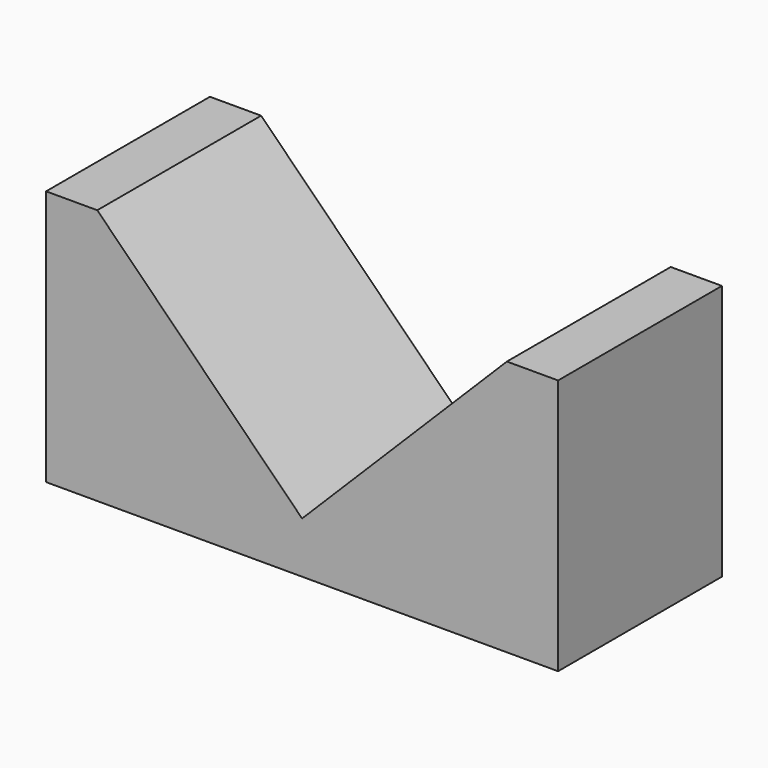
from build123d import *

# Parameters (mm, degrees)
F0_W     = 63.5
F0_H     = 31.75
F1_DEPTH = 25.4
F3_DEPTH = 25.4


with BuildPart() as f1:
    # F0 (on Front) → F1 (new body)
    with BuildSketch(Plane.XZ):
        with Locations((31.75, 15.875)):
            Rectangle(F0_W, F0_H)
    extrude(amount=F1_DEPTH)

    # F2 (on face) → F3 (cut)
    with BuildSketch(Plane.XZ.offset(25.4)):
        Polygon((44.45, 31.75), (19.05, 31.75), (31.75, 19.05), align=None)
        Polygon((19.05, 31.75), (6.35, 31.75), (31.75, 6.35), (31.75, 19.05), align=None)
        Polygon((31.75, 19.05), (31.75, 6.35), (57.15, 31.75), (44.45, 31.75), align=None)
    extrude(amount=-F3_DEPTH, mode=Mode.SUBTRACT)


solid = f1.part
